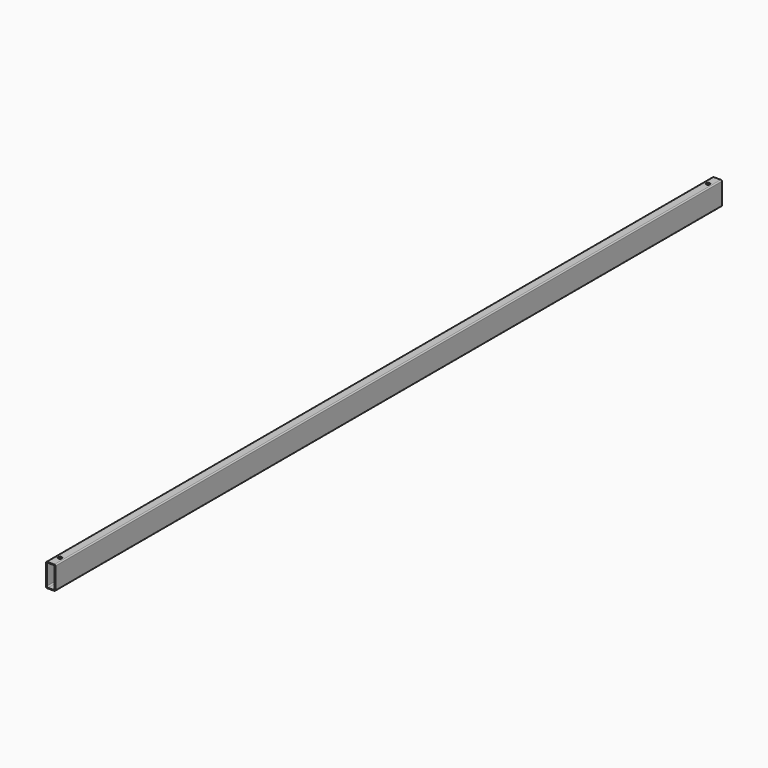
from build123d import *

# Parameters (mm, degrees)
F1_DEPTH = 2273.44
F2_R     = 5
F3_DEPTH = 63.501


with BuildPart() as f1:
    # F0 (on Front) → F1 (new body)
    with BuildSketch(Plane.XZ):
        with BuildLine():
            Line((16.468255, 41.964153), (-2.931745, 41.964153))
            ThreePointArc((-2.931745, 41.964153), (-5.053066, 41.085473), (-5.931745, 38.964153))
            Line((-5.931745, 38.964153), (-5.931745, -18.535847))
            ThreePointArc((-5.931745, -18.535847), (-5.053066, -20.657168), (-2.931745, -21.535847))
            Line((-2.931745, -21.535847), (16.468255, -21.535847))
            ThreePointArc((16.468255, -21.535847), (18.589575, -20.657168), (19.468255, -18.535847))
            Line((19.468255, -18.535847), (19.468255, 38.964153))
            ThreePointArc((19.468255, 38.964153), (18.589575, 41.085473), (16.468255, 41.964153))
        make_face()
        with BuildLine():
            ThreePointArc((-3.94737, 36.979778), (-3.068691, 39.101098), (-0.94737, 39.979778))
            Line((-0.94737, 39.979778), (14.48388, 39.979778))
            ThreePointArc((14.48388, 39.979778), (16.6052, 39.101098), (17.48388, 36.979778))
            Line((17.48388, 36.979778), (17.48388, -16.551472))
            ThreePointArc((17.48388, -16.551472), (16.6052, -18.672793), (14.48388, -19.551472))
            Line((14.48388, -19.551472), (-0.94737, -19.551472))
            ThreePointArc((-0.94737, -19.551472), (-3.068691, -18.672793), (-3.94737, -16.551472))
            Line((-3.94737, -16.551472), (-3.94737, 36.979778))
        make_face(mode=Mode.SUBTRACT)
    extrude(amount=F1_DEPTH)

    # F2 (on face) → F3 (cut, through all)
    with BuildSketch(Plane.XY.offset(41.964153)):
        with Locations((6.768255, -2241.69)):
            Circle(F2_R)
        with Locations((6.768255, -31.75)):
            Circle(F2_R)
    extrude(amount=-F3_DEPTH, mode=Mode.SUBTRACT)


solid = f1.part
